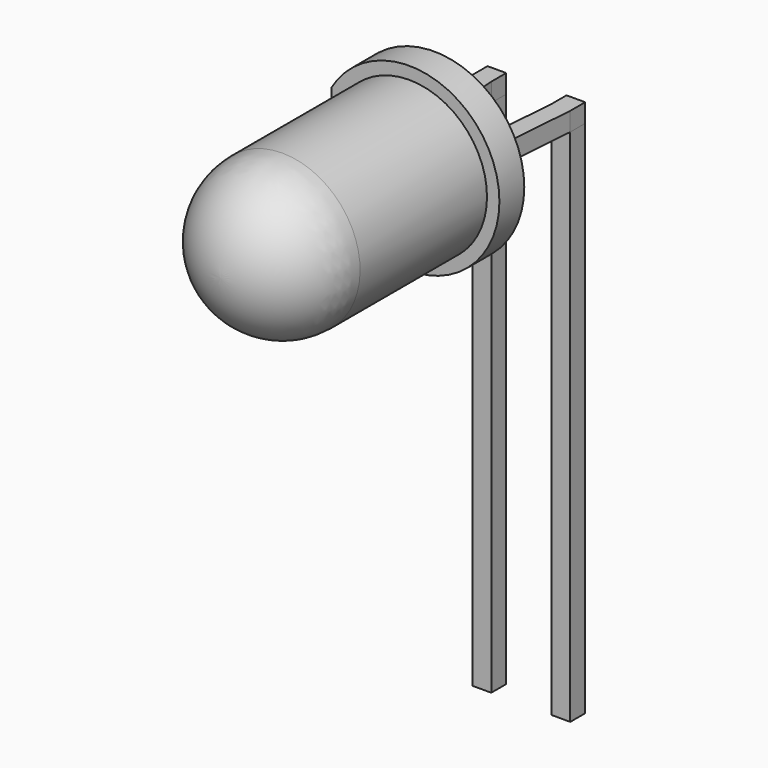
from build123d import *

# Parameters (mm, degrees)
SKETCH_W       = 0.6
SKETCH_H       = 0.6
PAD_DEPTH      = 14.7
PAD_DEPTH_BACK = 2
PAD001_DEPTH   = 0.6
SKETCH002_W    = 2.54
SKETCH002_H    = 0.6
PAD002_DEPTH   = 1
SKETCH004_R    = 2.9
SKETCH004_R_2  = 2.5
PAD003_DEPTH   = 1
SKETCH006_W    = 0.4
SKETCH006_H    = 5.8
POCKET_DEPTH   = 1.001


with BuildPart() as pad:
    # Sketch → Pad (new body, two sides)
    with BuildSketch(Plane.XY) as pad_sk:
        Rectangle(SKETCH_W, SKETCH_H)
        with Locations((2.54, 0)):
            Rectangle(SKETCH_W, SKETCH_H)
    extrude(amount=PAD_DEPTH)
    extrude(pad_sk.sketch, amount=-PAD_DEPTH_BACK)


with BuildPart() as pad001:
    # Sketch001 → Pad001 (new body)
    with BuildSketch(Plane.XY.offset(14.7)):
        Polygon((0.3, 0.3), (-0.3, 0.3), (-0.3, -0.3), (0, -4.31), (0.6, -4.31), (0.3, -0.3), align=None)
        Polygon((2.84, 0.3), (2.24, 0.3), (2.24, -0.3), (1.94, -4.31), (2.54, -4.31), (2.84, -0.3), align=None)
    extrude(amount=PAD001_DEPTH)


with BuildPart() as pad002:
    # Sketch002 → Pad002 (new body)
    with BuildSketch(Plane.XZ.offset(4.31)):
        with Locations((1.27, 15)):
            Rectangle(SKETCH002_W, SKETCH002_H)
    extrude(amount=PAD002_DEPTH)


with BuildPart() as revolution:
    # Sketch003 → Revolution (revolve)
    with BuildSketch(Plane.YZ.offset(1.27)):
        with BuildLine():
            Line((-3.81, 15), (-12.41, 15))
            ThreePointArc((-9.91, 17.5), (-11.677767, 16.767767), (-12.41, 15))
            Line((-3.81, 17.5), (-9.91, 17.5))
            Line((-3.81, 15), (-3.81, 17.5))
        make_face()
    revolve(axis=Axis((1.27, -5.810397, 15), (0, -1, 0)))


with BuildPart() as revolution001:
    # Sketch005 → Revolution001 (revolve)
    with BuildSketch(Plane.YZ.offset(1.27)):
        Polygon((-5.01, 15), (-5.51, 15), (-5.51, 15.5), align=None)
    revolve(axis=Axis((1.27, -3.977201, 15), (0, -1, 0)))


with BuildPart() as pocket:
    # Sketch004 → Pad003 (new body)
    with BuildSketch(Plane.XZ.offset(3.81)):
        with Locations((1.27, 15)):
            Circle(SKETCH004_R)
        with Locations((1.27, 15)):
            Circle(SKETCH004_R_2, mode=Mode.SUBTRACT)
    extrude(amount=PAD003_DEPTH)

    # Sketch006 → Pocket (cut, through all)
    with BuildSketch(Plane.XZ.offset(4.81)):
        with Locations((-1.43, 15)):
            Rectangle(SKETCH006_W, SKETCH006_H)
    extrude(amount=-POCKET_DEPTH, mode=Mode.SUBTRACT)


solid = Compound([pad.part, pad001.part, pad002.part, revolution.part, revolution001.part, pocket.part])
